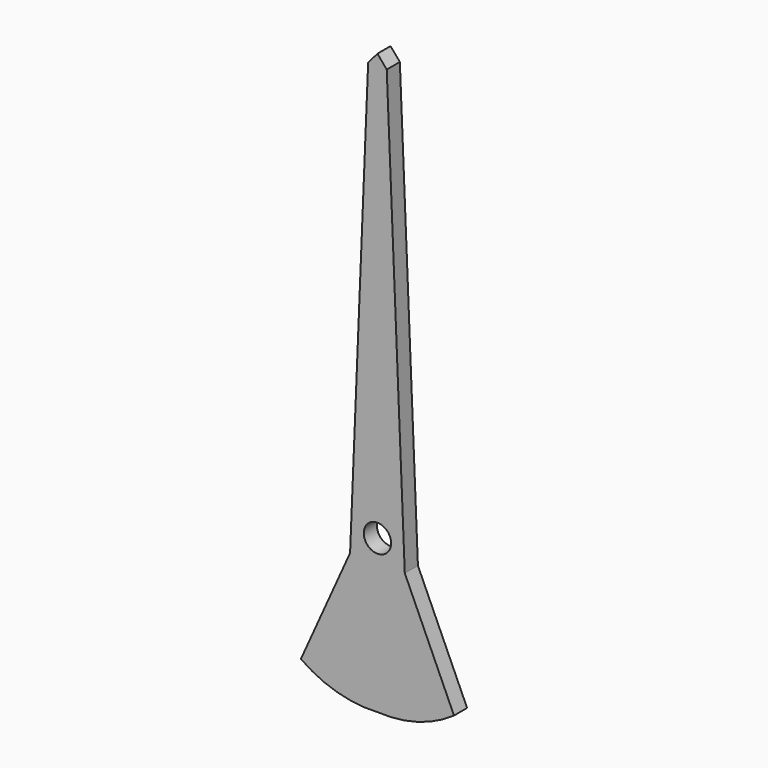
from build123d import *

# Parameters (mm, degrees)
F0_R     = 1.25
F1_DEPTH = 1.5


with BuildPart() as f1:
    # F0 (on Front) → F1 (new body)
    with BuildSketch(Plane.XZ):
        with BuildLine():
            Line((0.85, 38), (0, 39))
            Line((0, 39), (-0.85, 38))
            Line((-0.85, 38), (-2.5, -2))
            Line((-2.5, -2), (-7, -12))
            ThreePointArc((-7, -12), (-3.669946, -13.59481), (0, -14))
            ThreePointArc((0, -14), (3.669946, -13.59481), (7, -12))
            Line((7, -12), (2.5, -2))
            Line((2.5, -2), (0.85, 38))
        make_face()
        Circle(F0_R, mode=Mode.SUBTRACT)
    extrude(amount=F1_DEPTH)


solid = f1.part
